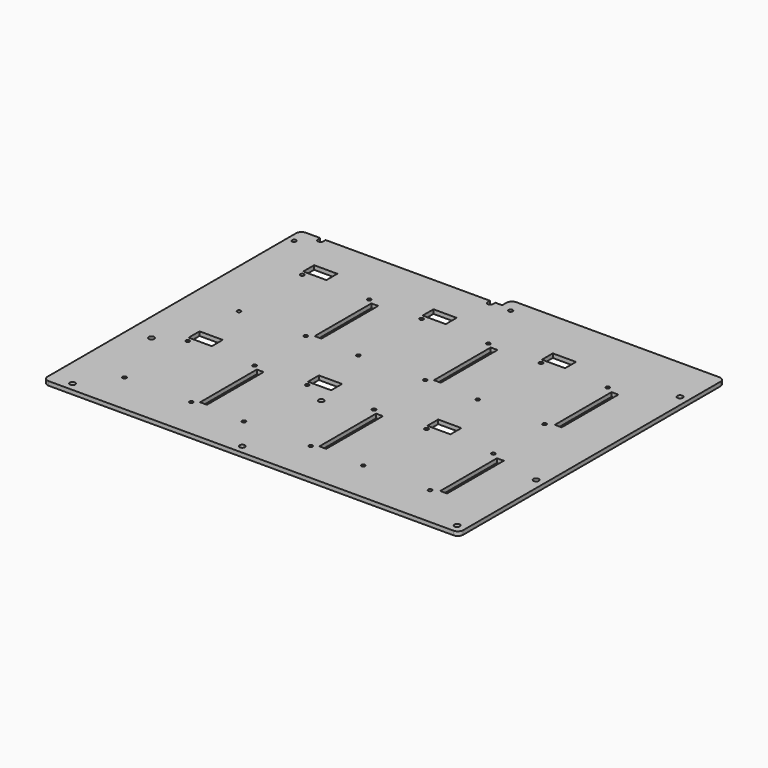
from build123d import *

# Parameters (mm, degrees)
F0_R     = 1.9812
F0_R_2   = 1.3716
F0_W     = 4.99999
F0_H     = 51.988186
F0_W_2   = 17
F0_H_2   = 10.000005
F0_W_3   = 5.005598
F0_H_3   = 51.988198
F0_R_3   = 1.5
F1_DEPTH = 2.999994


with BuildPart() as f1:
    # F0 (on Top) → F1 (new body)
    with BuildSketch(Plane.XY):
        with BuildLine():
            ThreePointArc((-161.572698, -117.981502), (-160.412138, -120.783342), (-157.610298, -121.943902))
            Line((-157.610298, -121.943902), (139.264902, -121.943902))
            ThreePointArc((139.264902, -121.943902), (142.066742, -120.783342), (143.227302, -117.981502))
            Line((143.227302, -117.981502), (143.227302, 117.806698))
            ThreePointArc((143.227302, 117.806698), (142.066742, 120.608538), (139.264902, 121.769098))
            Line((139.264902, 121.769098), (-9.640698, 121.769098))
            ThreePointArc((-9.640698, 121.769098), (-12.442255, 120.608655), (-13.602698, 117.807098))
            Line((-13.602698, 117.807098), (-13.602698, 113.769098))
            Line((-13.602698, 113.769098), (-18.621498, 113.769098))
            Line((-18.621498, 113.769098), (-18.621498, 111.609098))
            ThreePointArc((-18.621498, 111.609098), (-20.602698, 109.627898), (-22.583898, 111.609098))
            Line((-22.583898, 111.609098), (-22.583898, 113.769098))
            Line((-22.583898, 113.769098), (-143.081498, 113.769098))
            Line((-143.081498, 113.769098), (-143.081498, 111.609098))
            ThreePointArc((-143.081498, 111.609098), (-145.062698, 109.627898), (-147.043898, 111.609098))
            Line((-147.043898, 111.609098), (-147.043898, 113.769098))
            Line((-147.043898, 113.769098), (-157.610698, 113.769098))
            ThreePointArc((-157.610698, 113.769098), (-160.412255, 112.608655), (-161.572698, 109.807098))
            Line((-161.572698, 109.807098), (-161.572698, -117.981502))
        make_face()
        with Locations((-145.062698, -115.720902)):
            Circle(F0_R, mode=Mode.SUBTRACT)
        with Locations((-126.572768, -91.248119)):
            Circle(F0_R_2, mode=Mode.SUBTRACT)
        with Locations((-20.602698, -115.720902)):
            Circle(F0_R, mode=Mode.SUBTRACT)
        with Locations((-77.576168, -91.248119)):
            Circle(F0_R_2, mode=Mode.SUBTRACT)
        with Locations((-71.023698, -62.253998)):
            Rectangle(F0_W, F0_H, mode=Mode.SUBTRACT)
        with Locations((-39.071038, -91.123914)):
            Circle(F0_R_2, mode=Mode.SUBTRACT)
        with Locations((-145.062698, -43.330902)):
            Circle(F0_R, mode=Mode.SUBTRACT)
        with Locations((-126.572768, -33.259919)):
            Circle(F0_R_2, mode=Mode.SUBTRACT)
        with Locations((-120.213727, -24.750785)):
            Rectangle(F0_W_2, F0_H_2, mode=Mode.SUBTRACT)
        with Locations((-77.576168, -33.259919)):
            Circle(F0_R_2, mode=Mode.SUBTRACT)
        with Locations((-39.071038, -33.135714)):
            Circle(F0_R_2, mode=Mode.SUBTRACT)
        with Locations((-20.602698, -43.330902)):
            Circle(F0_R, mode=Mode.SUBTRACT)
        with Locations((-32.702081, -24.750785)):
            Rectangle(F0_W_2, F0_H_2, mode=Mode.SUBTRACT)
        with Locations((9.925562, -91.123914)):
            Circle(F0_R_2, mode=Mode.SUBTRACT)
        with Locations((16.478031, -62.253998)):
            Rectangle(F0_W, F0_H, mode=Mode.SUBTRACT)
        with Locations((48.430692, -91.109401)):
            Circle(F0_R_2, mode=Mode.SUBTRACT)
        with Locations((136.877302, -115.593902)):
            Circle(F0_R, mode=Mode.SUBTRACT)
        with Locations((97.427292, -91.109401)):
            Circle(F0_R_2, mode=Mode.SUBTRACT)
        with Locations((105.110925, -62.253998)):
            Rectangle(F0_W_3, F0_H, mode=Mode.SUBTRACT)
        with Locations((9.925562, -33.135714)):
            Circle(F0_R_2, mode=Mode.SUBTRACT)
        with Locations((48.430692, -33.121201)):
            Circle(F0_R_2, mode=Mode.SUBTRACT)
        with Locations((54.808345, -24.750786)):
            Rectangle(F0_W_2, F0_H_2, mode=Mode.SUBTRACT)
        with Locations((97.427292, -33.121201)):
            Circle(F0_R_2, mode=Mode.SUBTRACT)
        with Locations((136.877302, -43.203902)):
            Circle(F0_R, mode=Mode.SUBTRACT)
        with Locations((-126.572768, 13.791184)):
            Circle(F0_R_2, mode=Mode.SUBTRACT)
        with Locations((-77.576168, 13.791184)):
            Circle(F0_R_2, mode=Mode.SUBTRACT)
        with Locations((-39.071038, 13.746255)):
            Circle(F0_R_2, mode=Mode.SUBTRACT)
        with Locations((-71.023698, 42.785289)):
            Rectangle(F0_W, F0_H_3, mode=Mode.SUBTRACT)
        with Locations((-126.572768, 71.779384)):
            Circle(F0_R_2, mode=Mode.SUBTRACT)
        with Locations((-120.213727, 80.288516)):
            Rectangle(F0_W_2, F0_H_2, mode=Mode.SUBTRACT)
        with Locations((-156.572698, 101.769098)):
            Circle(F0_R_3, mode=Mode.SUBTRACT)
        with Locations((-77.576168, 71.779384)):
            Circle(F0_R_2, mode=Mode.SUBTRACT)
        with Locations((-39.071038, 71.734455)):
            Circle(F0_R_2, mode=Mode.SUBTRACT)
        with Locations((-32.70208, 80.288516)):
            Rectangle(F0_W_2, F0_H_2, mode=Mode.SUBTRACT)
        with Locations((9.925562, 13.746255)):
            Circle(F0_R_2, mode=Mode.SUBTRACT)
        with Locations((48.430692, 13.850588)):
            Circle(F0_R_2, mode=Mode.SUBTRACT)
        with Locations((16.478031, 42.785289)):
            Rectangle(F0_W, F0_H_3, mode=Mode.SUBTRACT)
        with Locations((97.427292, 13.850588)):
            Circle(F0_R_2, mode=Mode.SUBTRACT)
        with Locations((105.110925, 42.785289)):
            Rectangle(F0_W_3, F0_H_3, mode=Mode.SUBTRACT)
        with Locations((9.925562, 71.734455)):
            Circle(F0_R_2, mode=Mode.SUBTRACT)
        with Locations((48.430692, 71.838788)):
            Circle(F0_R_2, mode=Mode.SUBTRACT)
        with Locations((54.808346, 80.288516)):
            Rectangle(F0_W_2, F0_H_2, mode=Mode.SUBTRACT)
        with Locations((-5.602698, 111.609098)):
            Circle(F0_R_3, mode=Mode.SUBTRACT)
        with Locations((97.427292, 71.838788)):
            Circle(F0_R_2, mode=Mode.SUBTRACT)
        with Locations((136.877302, 88.749098)):
            Circle(F0_R, mode=Mode.SUBTRACT)
    extrude(amount=F1_DEPTH)


solid = f1.part
